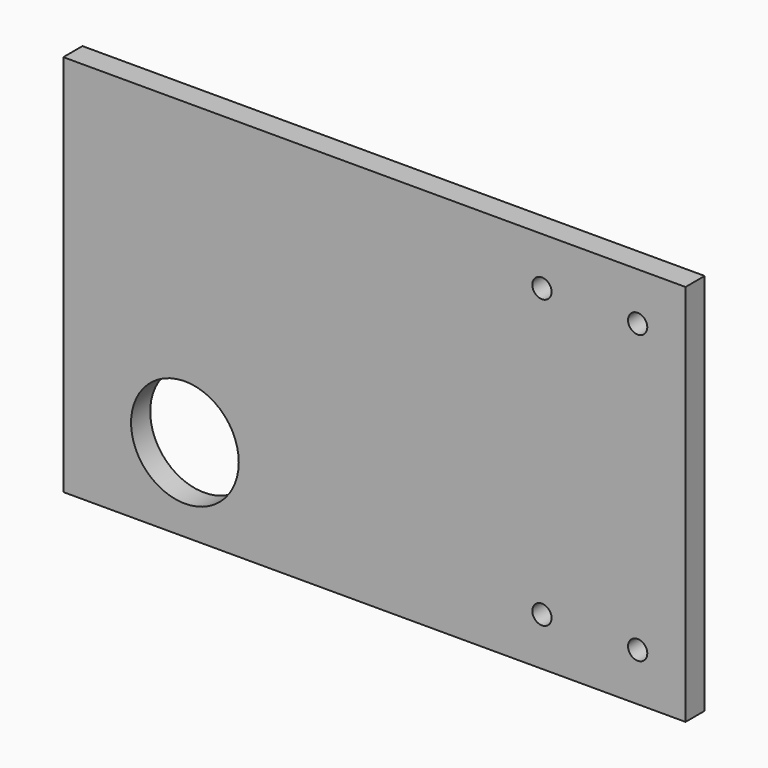
from build123d import *

# Parameters (mm, degrees)
F0_W     = 165.1
F0_H     = 101.6
F1_DEPTH = 6.35
F2_R     = 2.5527
F3_DEPTH = 25.4
F4_R     = 14.2875
F5_DEPTH = 25.4


with BuildPart() as f1:
    # F0 (on Front) → F1 (new body)
    with BuildSketch(Plane.XZ):
        with Locations((-151.574861, 50.8)):
            Rectangle(F0_W, F0_H)
    extrude(amount=F1_DEPTH)

    # F2 (on face) → F3 (cut)
    with BuildSketch(Plane.XZ.offset(6.35)):
        with Locations((-107.124861, 12.7)):
            Circle(F2_R)
        with Locations((-81.724861, 12.7)):
            Circle(F2_R)
        with Locations((-107.124861, 88.9)):
            Circle(F2_R)
        with Locations((-81.724861, 88.9)):
            Circle(F2_R)
    extrude(amount=-F3_DEPTH, mode=Mode.SUBTRACT)

    # F4 (on face) → F5 (cut)
    with BuildSketch(Plane.XZ.offset(6.35)):
        with Locations((-201.859877, 22.078976)):
            Circle(F4_R)
    extrude(amount=-F5_DEPTH, mode=Mode.SUBTRACT)


solid = f1.part
